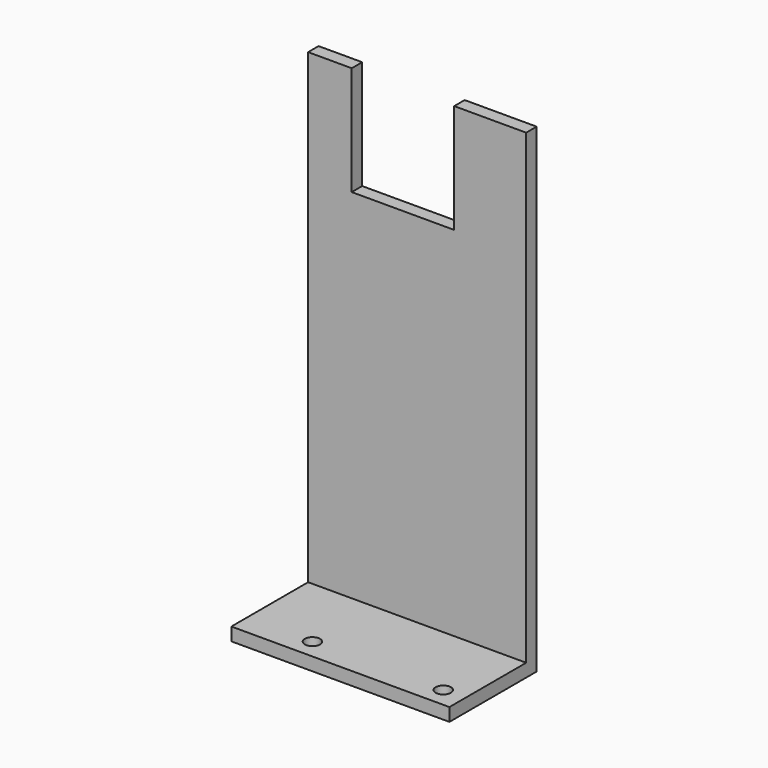
from build123d import *

# Parameters (mm, degrees)
F0_W     = 6
F0_H     = 214
F0_H_2   = 6
F0_W_2   = 44
F1_DEPTH = 100
F3_D     = 7
F4_W     = 47
F4_H     = 50
F5_DEPTH = 25


with BuildPart() as f1:
    # F0 (on Right) → F1 (new body)
    with BuildSketch(Plane.YZ):
        with Locations((-3, 113)):
            Rectangle(F0_W, F0_H)
        with Locations((-3, 3)):
            Rectangle(F0_W, F0_H_2)
        with Locations((-28, 3)):
            Rectangle(F0_W_2, F0_H_2)
    extrude(amount=F1_DEPTH)

    # F3 (through all)
    with Locations(Plane(origin=(0, 0, 0), x_dir=(1, 0, 0), z_dir=(0, 0, -1))):
        with Locations((30, 41.0281047225), (90, 41.0281047225)):
            Hole(F3_D / 2)

    # F4 (on Front) → F5 (cut)
    with BuildSketch(Plane.XZ):
        with Locations((43.5, 195)):
            Rectangle(F4_W, F4_H)
    extrude(amount=F5_DEPTH, mode=Mode.SUBTRACT)


with BuildPart() as f6_1:
    # F6: instance of F1
    add(f1.part.mirror(Plane.XZ))


solid = f1.part
